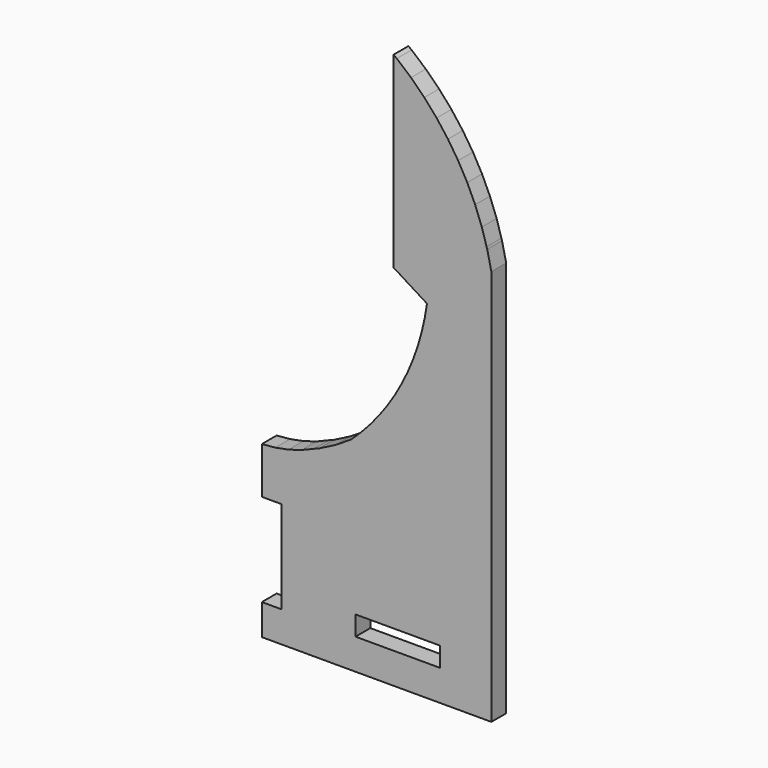
from build123d import *

# Parameters (mm, degrees)
F0_W     = 13.649985
F0_H     = 3.175
F1_DEPTH = 3


with BuildPart() as f1:
    # F0 (on Front) → F1 (new body)
    with BuildSketch(Plane.XZ):
        Polygon((2.751785, 44.612535), (2.751785, 14.63355), (8.161172, 11.255807), (7.787462, 9.041079), (7.286828, 6.851548), (6.660896, 4.694479), (5.911799, 2.577033), (5.041976, 0.506247), (4.054348, -1.510995), (2.952191, -3.468014), (1.739138, -5.358308), (0.419227, -7.175602), (-1.003173, -8.913851), (-2.523287, -10.567314), (-4.136136, -12.130481), (-6.6818, -13.727354), (-9.358071, -15.094128), (-10.114153, -15.386152), (-12.144172, -16.220237), (-14.247038, -16.848455), (-16.401923, -17.264532), (-18.587491, -17.46438), (-18.587491, -24.995835), (-15.412491, -24.995835), (-15.412491, -39.995856), (-18.587491, -39.995856), (-18.587491, -44.997776), (18.587517, -44.997776), (18.587517, 19.217361), (17.918074, 22.170746), (17.816957, 22.504705), (17.040631, 25.069114), (15.959607, 27.897887), (14.680489, 30.642738), (13.209676, 33.289875), (11.554638, 35.825887), (9.723704, 38.237973), (7.726147, 40.513991), (5.572023, 42.642434), (3.272206, 44.612535), (2.751785, 44.997802), align=None)
        with Locations((3.412502, -38.408356)):
            Rectangle(F0_W, F0_H, mode=Mode.SUBTRACT)
    extrude(amount=F1_DEPTH)


solid = f1.part
